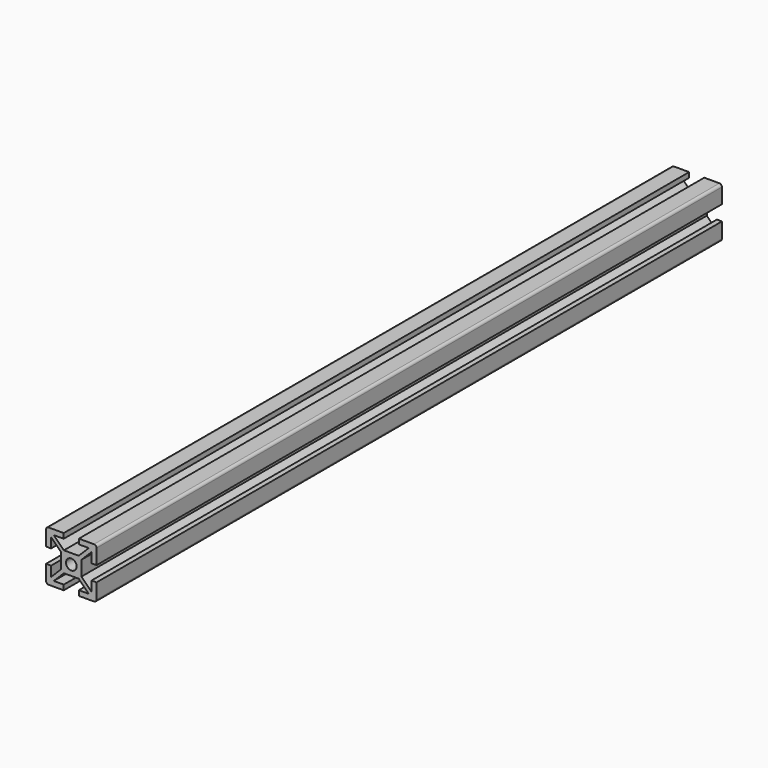
from build123d import *

# Parameters (mm, degrees)
F0_R     = 2.1
F1_DEPTH = 310


with BuildPart() as f1:
    # F0 (on Front) → F1 (new body)
    with BuildSketch(Plane.XZ):
        with BuildLine():
            ThreePointArc((9.944745, 8.840758), (9.651851, 9.547865), (8.944745, 9.840758))
            Line((8.944745, 9.840758), (2.944745, 9.840758))
            Line((2.944745, 9.840758), (2.944745, 7.840758))
            Line((2.944745, 7.840758), (6.884085, 7.840758))
            Line((6.884085, 7.840758), (2.884085, 3.840758))
            Line((2.884085, 3.840758), (-2.994595, 3.840758))
            Line((-2.994595, 3.840758), (-6.994595, 7.840758))
            Line((-6.994595, 7.840758), (-3.055255, 7.840758))
            Line((-3.055255, 7.840758), (-3.055255, 9.840758))
            Line((-3.055255, 9.840758), (-9.055255, 9.840758))
            ThreePointArc((-9.055255, 9.840758), (-9.762362, 9.547865), (-10.055255, 8.840758))
            Line((-10.055255, 8.840758), (-10.055255, 2.840758))
            Line((-10.055255, 2.840758), (-8.055255, 2.840758))
            Line((-8.055255, 2.840758), (-8.055255, 6.780098))
            Line((-8.055255, 6.780098), (-4.055255, 2.780098))
            Line((-4.055255, 2.780098), (-4.055255, -3.098581))
            Line((-4.055255, -3.098581), (-8.055255, -7.098581))
            Line((-8.055255, -7.098581), (-8.055255, -3.159242))
            Line((-8.055255, -3.159242), (-10.055255, -3.159242))
            Line((-10.055255, -3.159242), (-10.055255, -9.159242))
            ThreePointArc((-10.055255, -9.159242), (-9.762362, -9.866348), (-9.055255, -10.159242))
            Line((-9.055255, -10.159242), (-3.055255, -10.159242))
            Line((-3.055255, -10.159242), (-3.055255, -8.159242))
            Line((-3.055255, -8.159242), (-6.994595, -8.159242))
            Line((-6.994595, -8.159242), (-2.994595, -4.159242))
            Line((-2.994595, -4.159242), (2.884085, -4.159242))
            Line((2.884085, -4.159242), (6.884085, -8.159242))
            Line((6.884085, -8.159242), (2.944745, -8.159242))
            Line((2.944745, -8.159242), (2.944745, -10.159242))
            Line((2.944745, -10.159242), (8.944745, -10.159242))
            ThreePointArc((8.944745, -10.159242), (9.651851, -9.866348), (9.944745, -9.159242))
            Line((9.944745, -9.159242), (9.944745, -3.159242))
            Line((9.944745, -3.159242), (7.944745, -3.159242))
            Line((7.944745, -3.159242), (7.944745, -7.098581))
            Line((7.944745, -7.098581), (3.944745, -3.098581))
            Line((3.944745, -3.098581), (3.944745, 2.780098))
            Line((3.944745, 2.780098), (7.944745, 6.780098))
            Line((7.944745, 6.780098), (7.944745, 2.840758))
            Line((7.944745, 2.840758), (9.944745, 2.840758))
            Line((9.944745, 2.840758), (9.944745, 8.840758))
        make_face()
        with Locations((-0.055255, -0.159242)):
            Circle(F0_R, mode=Mode.SUBTRACT)
    extrude(amount=F1_DEPTH)


solid = f1.part
